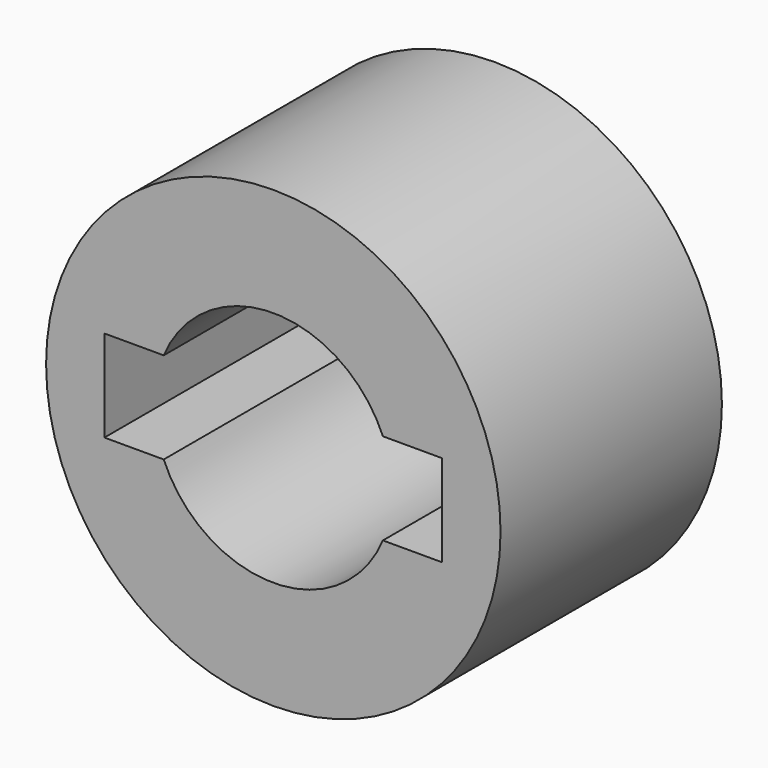
from build123d import *

# Parameters (mm, degrees)
F0_R     = 54.436535
F1_DEPTH = 66.294


with BuildPart() as f1:
    # F0 (on Front) → F1 (new body)
    with BuildSketch(Plane.XZ):
        Circle(F0_R)
        with BuildLine():
            ThreePointArc((-26.253978, 10.97882), (0, 28.457088), (26.253978, 10.97882))
            Line((26.253978, 10.97882), (40.456183, 10.97882))
            Line((40.456183, 10.97882), (40.456183, -10.97882))
            Line((40.456183, -10.97882), (26.253978, -10.97882))
            ThreePointArc((26.253978, -10.97882), (0, -28.457088), (-26.253978, -10.97882))
            Line((-26.253978, -10.97882), (-40.456183, -10.97882))
            Line((-40.456183, -10.97882), (-40.456183, 10.97882))
            Line((-40.456183, 10.97882), (-26.253978, 10.97882))
        make_face(mode=Mode.SUBTRACT)
    extrude(amount=F1_DEPTH)


solid = f1.part
